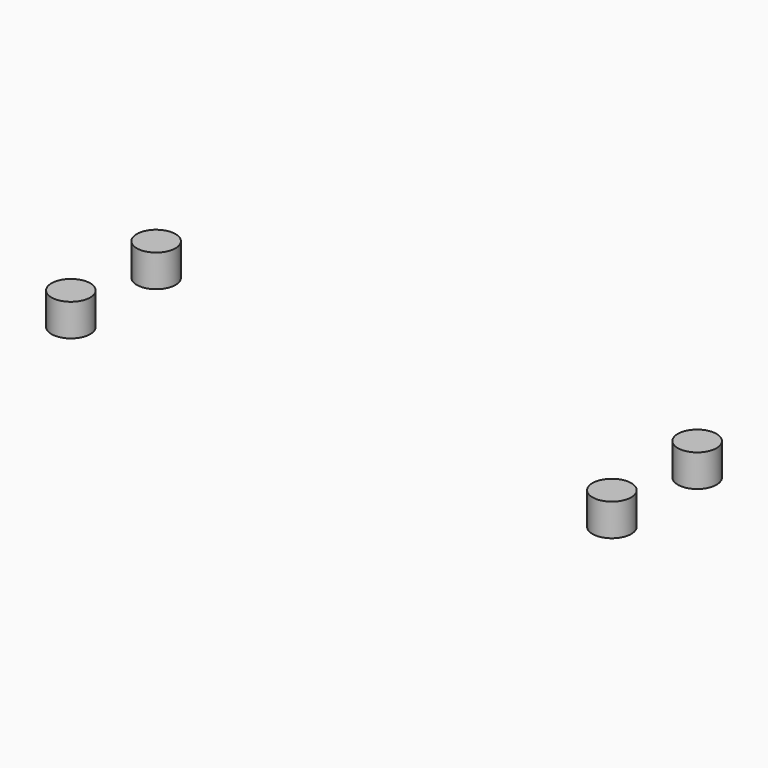
from build123d import *

# Parameters (mm, degrees)
CYLINDER016_R     = 3
CYLINDER016_DEPTH = 5
CYLINDER017_R     = 3
CYLINDER017_DEPTH = 5
CYLINDER018_R     = 3
CYLINDER018_DEPTH = 5
CYLINDER019_R     = 3
CYLINDER019_DEPTH = 5


with BuildPart() as cylinder016:
    # Cylinder016 → Cylinder016 (new body)
    with BuildSketch(Plane(origin=(-41.91, 8.255, 0), x_dir=(1, 0, 0), z_dir=(0, 0, 1))):
        Circle(CYLINDER016_R)
    extrude(amount=CYLINDER016_DEPTH)


with BuildPart() as cylinder017:
    # Cylinder017 → Cylinder017 (new body)
    with BuildSketch(Plane(origin=(-41.91, -8.26, 0), x_dir=(1, 0, 0), z_dir=(0, 0, 1))):
        Circle(CYLINDER017_R)
    extrude(amount=CYLINDER017_DEPTH)


with BuildPart() as cylinder018:
    # Cylinder018 → Cylinder018 (new body)
    with BuildSketch(Plane(origin=(41.91, 8.26, 0), x_dir=(1, 0, 0), z_dir=(0, 0, 1))):
        Circle(CYLINDER018_R)
    extrude(amount=CYLINDER018_DEPTH)


with BuildPart() as fusion006:
    # Cylinder019 → Cylinder019 (new body)
    with BuildSketch(Plane(origin=(41.91, -8.26, 0), x_dir=(1, 0, 0), z_dir=(0, 0, 1))):
        Circle(CYLINDER019_R)
    extrude(amount=CYLINDER019_DEPTH)

    # Fusion006: union Cylinder016, Cylinder017, Cylinder018
    add(cylinder016.part)
    add(cylinder017.part)
    add(cylinder018.part)


solid = fusion006.part
